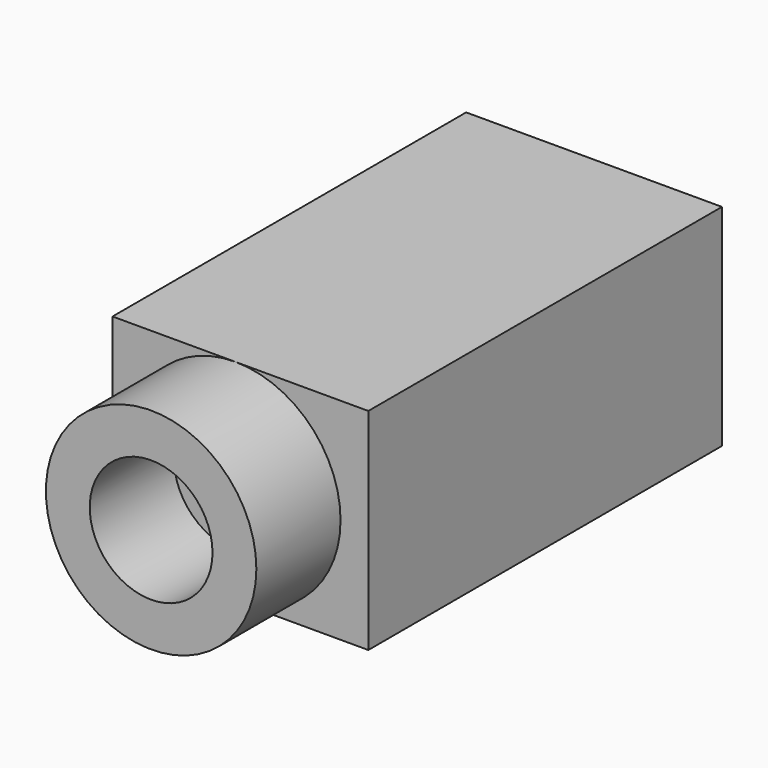
from build123d import *

# Parameters (mm, degrees)
F0_W     = 7.291668
F0_H     = 12.6
F1_DEPTH = 6
F2_R     = 3
F2_R_2   = 1.75
F3_DEPTH = 3
F4_W     = 0.2
F4_H     = 0.5
F5_DEPTH = 1.6


with BuildPart() as f1:
    # F0 (on Top) → F1 (new body)
    with BuildSketch(Plane.XY):
        with Locations((0.145834, 2.892729)):
            Rectangle(F0_W, F0_H)
    extrude(amount=F1_DEPTH)

    # F2 (on face) → F3 (join)
    with BuildSketch(Plane.XZ.offset(3.407271)):
        with Locations((0, 3)):
            Circle(F2_R)
        with Locations((0, 3)):
            Circle(F2_R_2, mode=Mode.SUBTRACT)
    extrude(amount=F3_DEPTH)

    # F4 (on face) → F5 (join)
    with BuildSketch(Plane(origin=(0, 0, 0), x_dir=(1, 0, 0), z_dir=(0, 0, -1))):
        with Locations((-3.4, 0.357271)):
            Rectangle(F4_W, F4_H)
    extrude(amount=F5_DEPTH)


solid = f1.part
